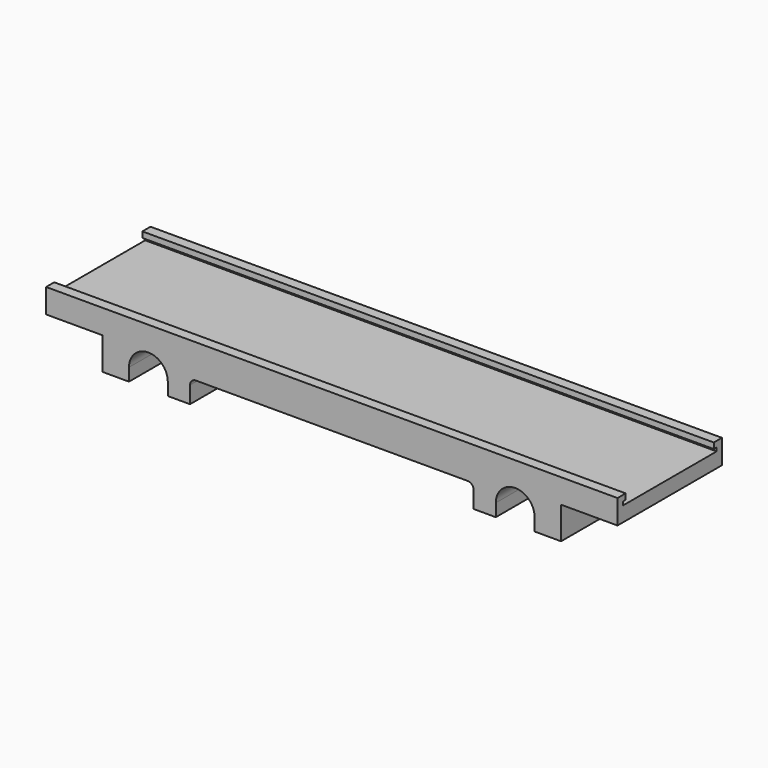
from build123d import *

# Parameters (mm, degrees)
SKETCH_W             = 162
SKETCH_H             = 37
PAD_DEPTH            = 16
POCKET_DEPTH         = 18.501
POCKET_DEPTH_BACK    = -18.501
POCKET001_DEPTH      = 18.501
POCKET001_DEPTH_BACK = -18.501
POCKET002_DEPTH      = 18.501
POCKET002_DEPTH_BACK = -18.501
POCKET003_DEPTH      = 18.501
POCKET003_DEPTH_BACK = -18.501
POCKET004_DEPTH      = 18.501
POCKET004_DEPTH_BACK = -18.501
SKETCH004_W          = 31.24
SKETCH004_H          = 3.92
POCKET005_DEPTH      = 81.001
POCKET005_DEPTH_BACK = -81.001
SKETCH005_W          = 33.24
SKETCH005_H          = 1
POCKET006_DEPTH      = 81.001
POCKET006_DEPTH_BACK = -81.001


with BuildPart() as part:
    # Sketch → Pad (new body)
    with BuildSketch(Plane.XY):
        Rectangle(SKETCH_W, SKETCH_H)
    extrude(amount=PAD_DEPTH)

    # Sketch001 → Pocket (cut, two sides)
    with BuildSketch(Plane.XZ) as pocket_sk:
        Polygon((81, 16), (81, 9.14), (65, 9.14), (65, -1.45), (83.75, -1.45), (83.75, 16), align=None)
    extrude(amount=-POCKET_DEPTH, mode=Mode.SUBTRACT)
    extrude(pocket_sk.sketch, amount=-POCKET_DEPTH_BACK, mode=Mode.SUBTRACT)

    # MirroredSketch → Pocket001 (cut, two sides)
    with BuildSketch(Plane.XZ) as pocket001_sk:
        Polygon((-81, 16), (-81, 9.14), (-65, 9.14), (-65, -1.45), (-83.75, -1.45), (-83.75, 16), align=None)
    extrude(amount=-POCKET001_DEPTH, mode=Mode.SUBTRACT)
    extrude(pocket001_sk.sketch, amount=-POCKET001_DEPTH_BACK, mode=Mode.SUBTRACT)

    # Sketch002 → Pocket002 (cut, two sides)
    with BuildSketch(Plane.XZ) as pocket002_sk:
        with BuildLine():
            Line((57.5, 3.58), (57.5, -2.6))
            Line((57.5, -2.6), (46.5, -2.6))
            Line((46.5, -2.6), (46.5, 3.58))
            ThreePointArc((57.5, 3.58), (52, 9.08), (46.5, 3.58))
        make_face()
    extrude(amount=-POCKET002_DEPTH, mode=Mode.SUBTRACT)
    extrude(pocket002_sk.sketch, amount=-POCKET002_DEPTH_BACK, mode=Mode.SUBTRACT)

    # MirroredSketch001 → Pocket003 (cut, two sides)
    with BuildSketch(Plane.XZ) as pocket003_sk:
        with BuildLine():
            Line((-57.5, 3.58), (-57.5, -2.6))
            Line((-57.5, -2.6), (-46.5, -2.6))
            Line((-46.5, -2.6), (-46.5, 3.58))
            ThreePointArc((-46.5, 3.58), (-52, 9.08), (-57.5, 3.58))
        make_face()
    extrude(amount=-POCKET003_DEPTH, mode=Mode.SUBTRACT)
    extrude(pocket003_sk.sketch, amount=-POCKET003_DEPTH_BACK, mode=Mode.SUBTRACT)

    # Sketch003 → Pocket004 (cut, two sides)
    with BuildSketch(Plane.XZ) as pocket004_sk:
        with BuildLine():
            Line((-40.2, 4.78), (-40.2, -1.94))
            Line((-40.2, -1.94), (40.2, -1.94))
            Line((40.2, -1.94), (40.2, 4.78))
            ThreePointArc((40.2, 4.78), (39.707939, 5.967939), (38.52, 6.46))
            Line((38.52, 6.46), (-38.52, 6.46))
            ThreePointArc((-38.52, 6.46), (-39.707939, 5.967939), (-40.2, 4.78))
        make_face()
    extrude(amount=-POCKET004_DEPTH, mode=Mode.SUBTRACT)
    extrude(pocket004_sk.sketch, amount=-POCKET004_DEPTH_BACK, mode=Mode.SUBTRACT)

    # Sketch004 → Pocket005 (cut, two sides)
    with BuildSketch(Plane.YZ) as pocket005_sk:
        with Locations((0, 15.32)):
            Rectangle(SKETCH004_W, SKETCH004_H)
    extrude(amount=-POCKET005_DEPTH, mode=Mode.SUBTRACT)
    extrude(pocket005_sk.sketch, amount=-POCKET005_DEPTH_BACK, mode=Mode.SUBTRACT)

    # Sketch005 → Pocket006 (cut, two sides)
    with BuildSketch(Plane.YZ) as pocket006_sk:
        with Locations((0, 13.86)):
            Rectangle(SKETCH005_W, SKETCH005_H)
    extrude(amount=-POCKET006_DEPTH, mode=Mode.SUBTRACT)
    extrude(pocket006_sk.sketch, amount=-POCKET006_DEPTH_BACK, mode=Mode.SUBTRACT)


solid = part.part
